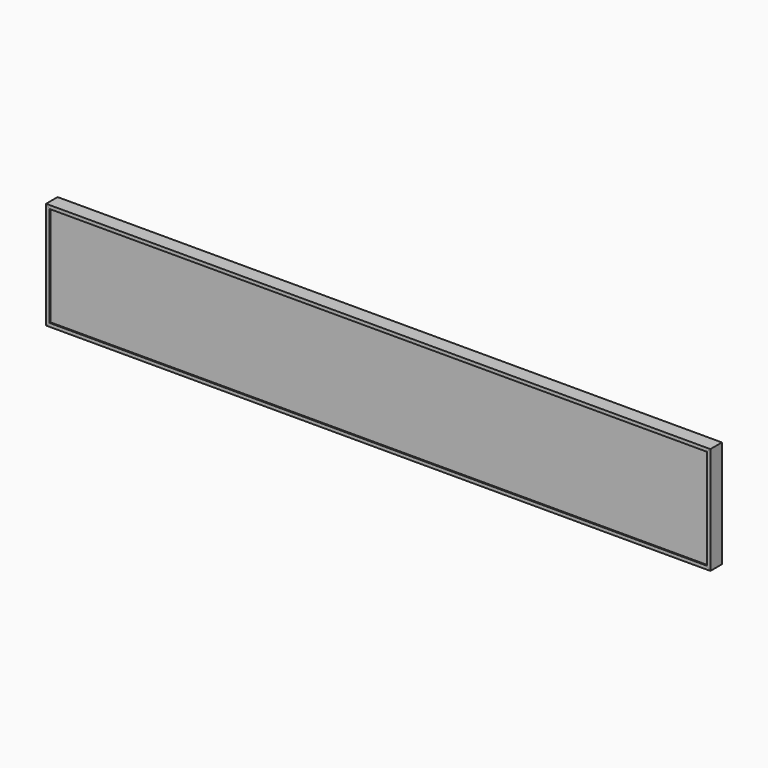
from build123d import *

# Parameters (mm, degrees)
F1_W           = 53.1
F1_H           = 12.7
F2_DEPTH       = 1219.2
F2_DEPTH_BACK  = 1219.2
F3_W           = 53.1
F3_H           = 12.7
F4_DEPTH       = 1219.2
F4_DEPTH_BACK  = 1219.2
F5_W           = 12
F5_H           = 381
F6_DEPTH       = 1212.85
F6_DEPTH_BACK  = 1212.85
F8_DEPTH       = 53.1
F9_W           = 36.5125
F9_H           = 12.7
F10_DEPTH      = 1206.5
F10_DEPTH_BACK = 1206.5
F17_W          = 4.7625
F17_H          = 12.7
F18_DEPTH      = 1219.201
F18_DEPTH_BACK = 1219.201
F19_W          = 2425.7
F19_H          = 381
F20_DEPTH      = 3.175


with BuildPart() as f2:
    # F1 (on Right) → F2 (new body, two sides)
    with BuildSketch(Plane.YZ) as f2_sk:
        with Locations((-26.55, -6.35)):
            Rectangle(F1_W, F1_H)
    extrude(amount=F2_DEPTH)
    extrude(f2_sk.sketch, amount=-F2_DEPTH_BACK)


with BuildPart() as f4:
    # F3 (on Right) → F4 (new body, two sides)
    with BuildSketch(Plane.YZ) as f4_sk:
        with Locations((-26.55, -387.35)):
            Rectangle(F3_W, F3_H)
    extrude(amount=F4_DEPTH)
    extrude(f4_sk.sketch, amount=-F4_DEPTH_BACK)


with BuildPart() as f6:
    # F5 (on Right) → F6 (new body, two sides)
    with BuildSketch(Plane.YZ) as f6_sk:
        with Locations((-6, -196.85)):
            Rectangle(F5_W, F5_H)
    extrude(amount=F6_DEPTH)
    extrude(f6_sk.sketch, amount=-F6_DEPTH_BACK)


with BuildPart() as f8:
    # F7 (on Front) → F8 (new body, through all)
    with BuildSketch(Plane.XZ):
        Polygon((-1206.5, -12.7), (-1219.2, 0), (-1219.2, -393.7), (-1206.5, -381), align=None)
    extrude(amount=F8_DEPTH)


with BuildPart() as f8b:
    # F7 (on Front) → F8, piece 2 (new body, through all)
    with BuildSketch(Plane.XZ):
        Polygon((1219.2, -393.7), (1219.2, 0), (1206.5, -12.7), (1206.5, -381), align=None)
    extrude(amount=F8_DEPTH)


with BuildPart() as f10:
    # F9 (on Right) → F10 (new body, two sides)
    with BuildSketch(Plane.YZ) as f10_sk:
        with Locations((-25.49375, -82.55)):
            Rectangle(F9_W, F9_H)
    extrude(amount=F10_DEPTH)
    extrude(f10_sk.sketch, amount=-F10_DEPTH_BACK)


with BuildPart() as f11_1:
    # F11: copy of F10
    add(f10.part.moved(Location((0, 0, -82.55))))


with BuildPart() as f12_1:
    # F12: copy of F11_1
    add(f11_1.part.moved(Location((0, 0, -82.55))))


with BuildPart() as f13_1:
    # F13: copy of F12_1
    add(f12_1.part.moved(Location((0, 0, -82.55))))


with BuildPart() as f2_1:
    add(f2.part)

    # F14: cut F8, F8b
    add(f8.part, mode=Mode.SUBTRACT)
    add(f8b.part, mode=Mode.SUBTRACT)

    # F15: cut F6
    add(f6.part, mode=Mode.SUBTRACT)


with BuildPart() as f4_1:
    add(f4.part)

    # F14: cut F8, F8b
    add(f8.part, mode=Mode.SUBTRACT)
    add(f8b.part, mode=Mode.SUBTRACT)

    # F15: cut F6
    add(f6.part, mode=Mode.SUBTRACT)


with BuildPart() as f8_1:
    add(f8.part)

    # F15: cut F6
    add(f6.part, mode=Mode.SUBTRACT)


with BuildPart() as f8b_1:
    add(f8b.part)

    # F15: cut F6
    add(f6.part, mode=Mode.SUBTRACT)


with BuildPart() as f6_1:
    add(f6.part)

    # F16: cut F10, F11_1, F12_1, F13_1
    add(f10.part, mode=Mode.SUBTRACT)
    add(f11_1.part, mode=Mode.SUBTRACT)
    add(f12_1.part, mode=Mode.SUBTRACT)
    add(f13_1.part, mode=Mode.SUBTRACT)

    # F17 (on Right) → F18 (cut, two sides)
    with BuildSketch(Plane.YZ) as f18_sk:
        with Locations((-9.61875, -165.1)):
            Rectangle(F17_W, F17_H)
        with Locations((-9.61875, -82.55)):
            Rectangle(F17_W, F17_H)
        with Locations((-9.61875, -247.65)):
            Rectangle(F17_W, F17_H)
        with Locations((-9.61875, -330.2)):
            Rectangle(F17_W, F17_H)
    extrude(amount=-F18_DEPTH, mode=Mode.SUBTRACT)
    extrude(f18_sk.sketch, amount=F18_DEPTH_BACK, mode=Mode.SUBTRACT)


with BuildPart() as f20:
    # F19 (on face) → F20 (new body)
    with BuildSketch(Plane.XZ.offset(43.75)):
        with Locations((0, -196.85)):
            Rectangle(F19_W, F19_H)
    extrude(amount=F20_DEPTH)


with BuildPart() as f21_1:
    # F21: copy of F20
    add(f20.part.moved(Location((0, -1.5875, 0))))


with BuildPart() as f8_2:
    add(f8_1.part)

    # F22: cut F20
    add(f20.part, mode=Mode.SUBTRACT)

    # F23: cut F21_1
    add(f21_1.part, mode=Mode.SUBTRACT)


with BuildPart() as f8b_2:
    add(f8b_1.part)

    # F22: cut F20
    add(f20.part, mode=Mode.SUBTRACT)

    # F23: cut F21_1
    add(f21_1.part, mode=Mode.SUBTRACT)


with BuildPart() as f2_2:
    add(f2_1.part)

    # F22: cut F20
    add(f20.part, mode=Mode.SUBTRACT)

    # F23: cut F21_1
    add(f21_1.part, mode=Mode.SUBTRACT)


with BuildPart() as f4_2:
    add(f4_1.part)

    # F22: cut F20
    add(f20.part, mode=Mode.SUBTRACT)

    # F23: cut F21_1
    add(f21_1.part, mode=Mode.SUBTRACT)


solid = Compound([f10.part, f11_1.part, f12_1.part, f13_1.part, f6_1.part, f20.part, f8_2.part, f8b_2.part, f2_2.part, f4_2.part])
